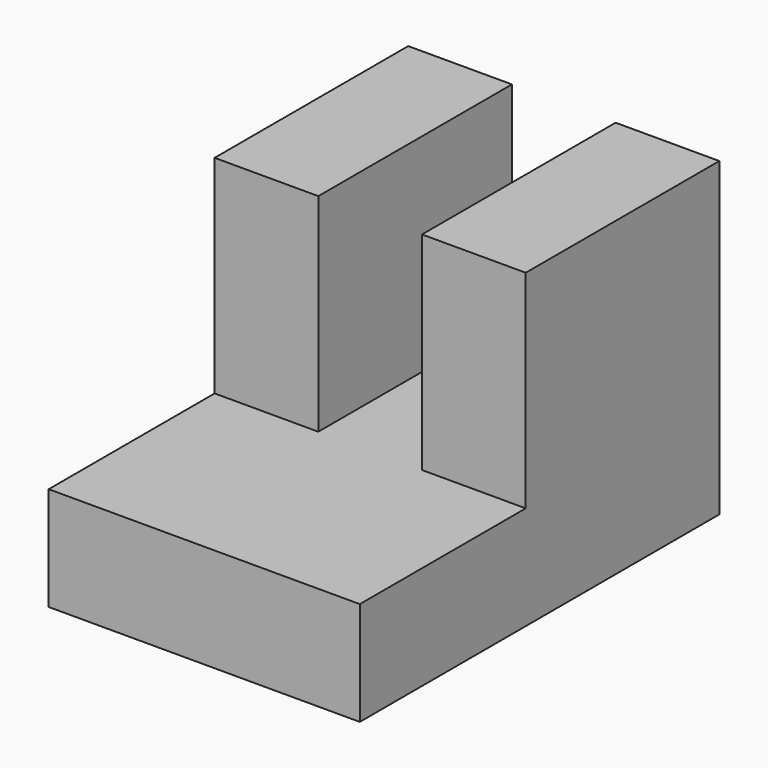
from build123d import *

# Parameters (mm, degrees)
F0_W     = 19.05
F0_H     = 38.1
F0_H_2   = 19.05
F0_W_2   = 38.1
F1_DEPTH = 19.05
F2_W     = 38.1
F2_H     = 19.05
F2_W_2   = 19.05
F3_DEPTH = 19.05
F4_W     = 19.05
F4_H     = 38.1
F5_DEPTH = 19.05
F6_DEPTH = 25.4


with BuildPart() as f1:
    # F0 (on Right) → F1 (new body)
    with BuildSketch(Plane.YZ):
        with Locations((-9.525, 38.1)):
            Rectangle(F0_W, F0_H)
        with Locations((-9.525, 9.525)):
            Rectangle(F0_W, F0_H_2)
        with Locations((-38.1, 9.525)):
            Rectangle(F0_W_2, F0_H_2)
    extrude(amount=F1_DEPTH)

    # F2 (on face) → F3 (join)
    with BuildSketch(Plane(origin=(0, 0, 0), x_dir=(0, -1, 0), z_dir=(-1, 0, 0))):
        with Locations((38.1, 9.525)):
            Rectangle(F2_W, F2_H)
        with Locations((9.525, 9.525)):
            Rectangle(F2_W_2, F2_H)
    extrude(amount=F3_DEPTH)

    # F4 (on face) → F5 (join)
    with BuildSketch(Plane(origin=(-19.05, 0, 0), x_dir=(0, -1, 0), z_dir=(-1, 0, 0))):
        with Locations((9.525, 38.1)):
            Rectangle(F4_W, F4_H)
        Polygon((19.05, 19.05), (0, 19.05), (0, 0), (57.15, 0), (57.15, 19.05), align=None)
    extrude(amount=F5_DEPTH)

    # F5_face (on face) → F6 (join)
    with BuildSketch(Plane(origin=(-9.525, 0, 25.853571), x_dir=(-1, 0, 0), z_dir=(0, 1, 0))):
        Polygon((-9.525, 31.296429), (-28.575, 31.296429), (-28.575, -25.853571), (28.575, -25.853571), (28.575, 31.296429), (9.525, 31.296429), (9.525, -6.803571), (-9.525, -6.803571), align=None)
    extrude(amount=F6_DEPTH)


solid = f1.part
